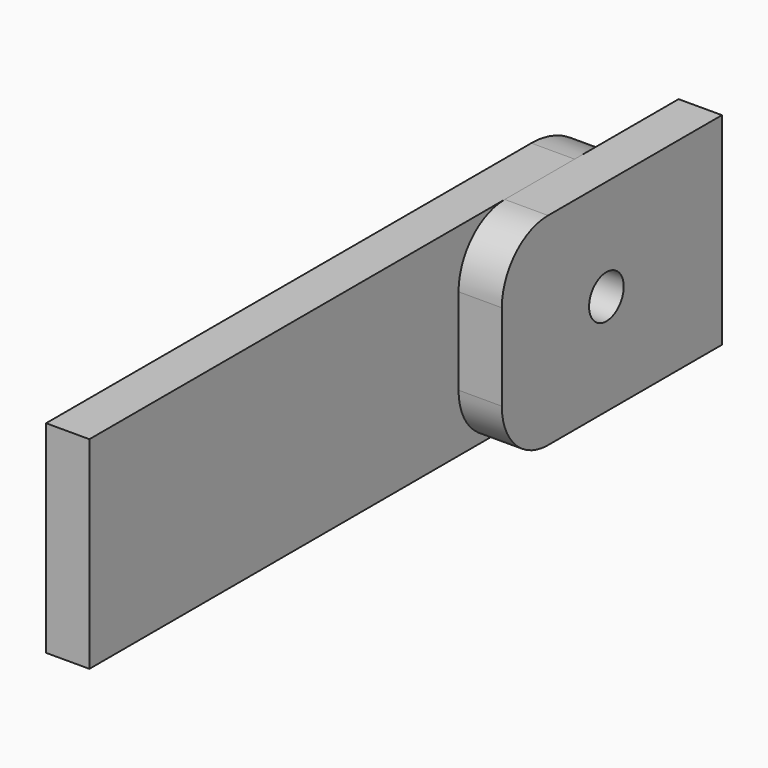
from build123d import *

# Parameters (mm, degrees)
F0_W     = 304.8
F0_H     = 88.9
F1_DEPTH = 19.05
F2_R     = 38.1
F3_R     = 9.525
F4_DEPTH = 19.051
F5_R     = 9.525
F6_DEPTH = 19.05


with BuildPart() as f1:
    # F0 (on Right) → F1 (new body)
    with BuildSketch(Plane.YZ):
        with Locations((152.4, 44.45)):
            Rectangle(F0_W, F0_H)
    extrude(amount=F1_DEPTH)

    # F2
    f2_edges = [f1.edges().sort_by_distance(p)[0] for p in [
        (9.525, 304.8, 88.9),
        (9.525, 304.8, 0),
    ]]
    fillet(f2_edges, radius=F2_R)

    # F3 (on face) → F4 (cut, through all)
    with BuildSketch(Plane.YZ.offset(19.05)):
        with Locations((260.35, 44.45)):
            Circle(F3_R)
    extrude(amount=-F4_DEPTH, mode=Mode.SUBTRACT)


with BuildPart() as f6:
    # F5 (on face) → F6 (new body)
    with BuildSketch(Plane.YZ.offset(19.05)):
        with BuildLine():
            Line((266.7, 88.9), (228.293974, 88.9))
            ThreePointArc((228.293974, 88.9), (210.333462, 81.460512), (202.893974, 63.5))
            Line((202.893974, 63.5), (202.893974, 25.4))
            ThreePointArc((202.893974, 25.4), (210.333462, 7.439488), (228.293974, 0))
            Line((228.293974, 0), (266.7, 0))
            ThreePointArc((266.7, 0), (293.640768, 11.159232), (304.8, 38.1))
            Line((304.8, 38.1), (304.8, 50.8))
            ThreePointArc((304.8, 50.8), (293.640768, 77.740768), (266.7, 88.9))
        make_face()
        with Locations((260.35, 44.45)):
            Circle(F5_R, mode=Mode.SUBTRACT)
        with BuildLine():
            Line((323.85, 88.9), (266.7, 88.9))
            ThreePointArc((266.7, 88.9), (293.640768, 77.740768), (304.8, 50.8))
            Line((304.8, 50.8), (304.8, 38.1))
            ThreePointArc((304.8, 38.1), (293.640768, 11.159232), (266.7, 0))
            Line((266.7, 0), (323.85, 0))
            Line((323.85, 0), (323.85, 88.9))
        make_face()
    extrude(amount=F6_DEPTH)


solid = Compound([f1.part, f6.part])
